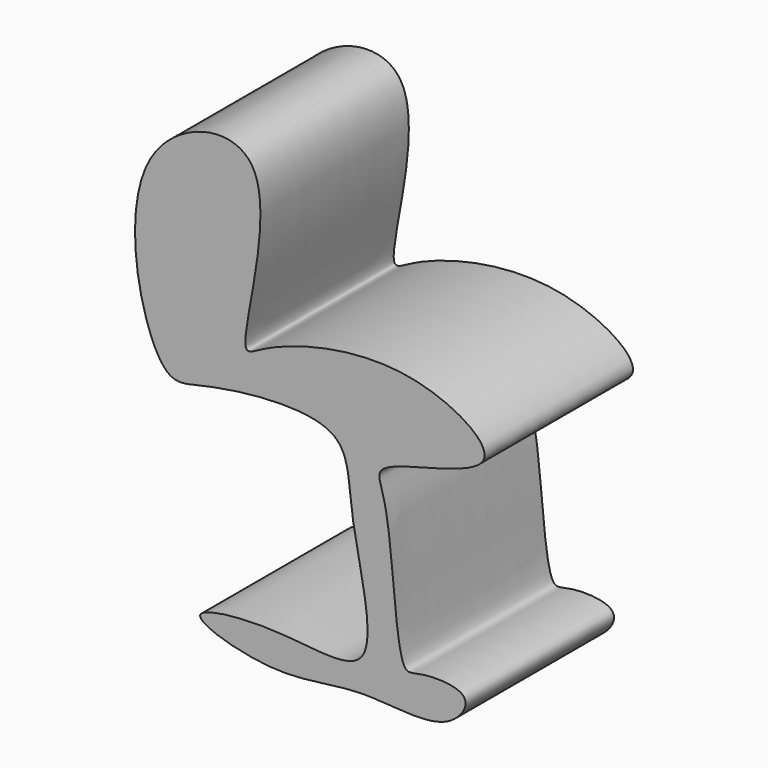
from build123d import *

# Parameters (mm, degrees)
F1_DEPTH = 55


with BuildPart() as f1:
    # F0 (on Front) → F1 (new body)
    with BuildSketch(Plane.XZ):
        with BuildLine():
            add(Edge.make_bspline(
                [(-6.7560481839, -72.4527835846), (-15.7887617778, -72.5314450596), (-30.2906160511, -77.4147458289), (-66.3560319091, -66.7093301461), (-30.7236812457, -62.5546987661), (1.9629022049, -70.97966101), (-11.7729621713, -26.7828519543), (-9.4781154682, -1.2319932097), (-53.4589597446, -6.1138377165), (-68.8883221044, -13.0169518596), (-84.0430502304, 53.7951069612), (-24.0103466345, 69.030749532), (-46.2839085048, 0.6861765475), (-33.5044939091, 10.7018022771), (5.2201749351, 21.8029362462), (44.7875793508, -3.1076058468), (-5.9810624148, -9.3478860899), (2.3313052641, -19.9807435301), (3.0679652596, -64.9350747993), (10.1839842963, -60.9867953761), (28.0314663079, -61.1297854147), (18.0914179439, -75.9873194277), (1.9522796635, -72.3769470261), (-6.7560481839, -72.4527835846)],
                knots=[0, 0, 0, 0, 0.0506628482, 0.0962767883, 0.1425538675, 0.1918956147, 0.2499108207, 0.2945929395, 0.3536502936, 0.3882232473, 0.4595633138, 0.5135308613, 0.5809902946, 0.6043589227, 0.668795863, 0.7184081716, 0.7728484422, 0.8025634214, 0.8648563241, 0.8859203192, 0.9212575874, 0.9511565725, 1, 1, 1, 1], degree=3))
        make_face()
    extrude(amount=F1_DEPTH)


solid = f1.part
